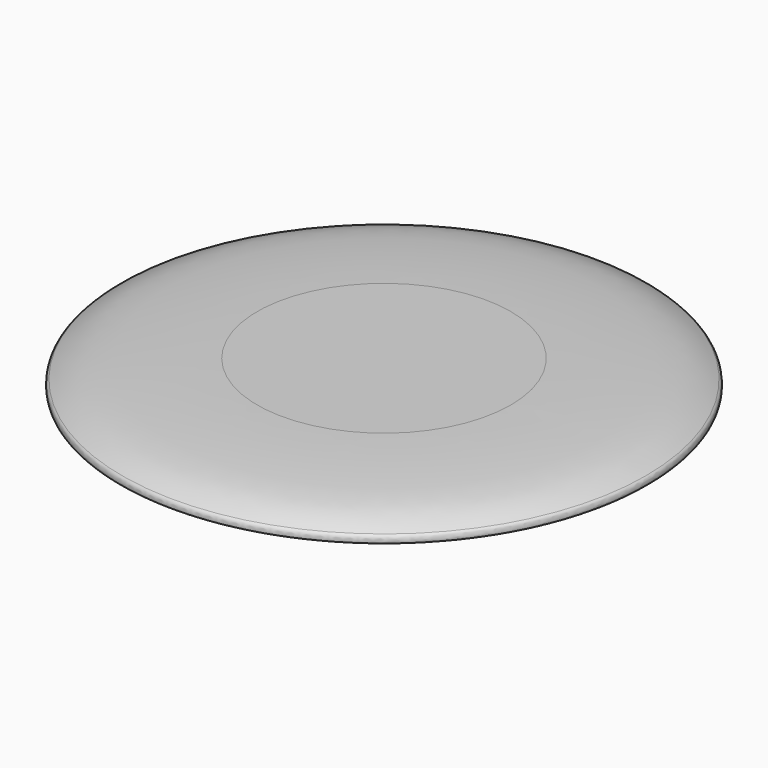
from build123d import *


with BuildPart() as f1:
    # F0 (on Front) → F1 (revolve)
    with BuildSketch(Plane.XZ):
        with BuildLine():
            Line((52.8691189355, -2.0442087461), (0, -2.0442087461))
            Line((0, -2.0442087461), (0, -3.2693337159))
            Line((0, -3.2693337159), (52.8691189355, -3.2693337159))
            add(Edge.make_bspline(
                [(52.8691189355, -3.2693337159), (68.4802385897, -3.3910650033), (82.349409231, -4.4923057705), (88.1921399298, -4.9413697113), (88.6141022129, -5.1259776698)],
                knots=[0, 0, 0, 0, 0.7354467552, 1, 1, 1, 1], degree=3))
            add(Edge.make_bspline(
                [(88.6141022129, -5.1259776698), (88.9130527643, -5.2473603452), (89.1910870596, -4.9863484887), (89.687103606, -16.6466436985), (90.5749493906, -17.7236068054), (92.4158505789, -17.7478439518), (93.4406877255, -16.9264576337), (99.9333549624, -13.9264958504), (109.1292184463, -13.5566186702), (110.1534502404, -12.5667101497), (110.0856031269, -10.4757287853), (109.4427633349, -9.9706836648), (109.1596829325, -9.7482831556)],
                knots=[0, 0, 0, 0, 0.0428589298, 0.2411907055, 0.3127035943, 0.3855591105, 0.4512499097, 0.612067348, 0.7931953811, 0.8556014228, 0.936674322, 1, 1, 1, 1], degree=3))
            add(Edge.make_bspline(
                [(52.8691189355, -2.0442087461), (62.7623904379, -2.1553052225), (78.5368358611, -2.8178826816), (99.9479219222, -4.8446207355), (106.4654732203, -8.3268598128), (109.1596829325, -9.7482831556)],
                knots=[0, 0, 0, 0, 0.4029816752, 0.7555756549, 1, 1, 1, 1], degree=3))
        make_face()
    revolve(axis=Axis((0, 0, -2.656771231), (0, 0, -1)))


solid = f1.part
